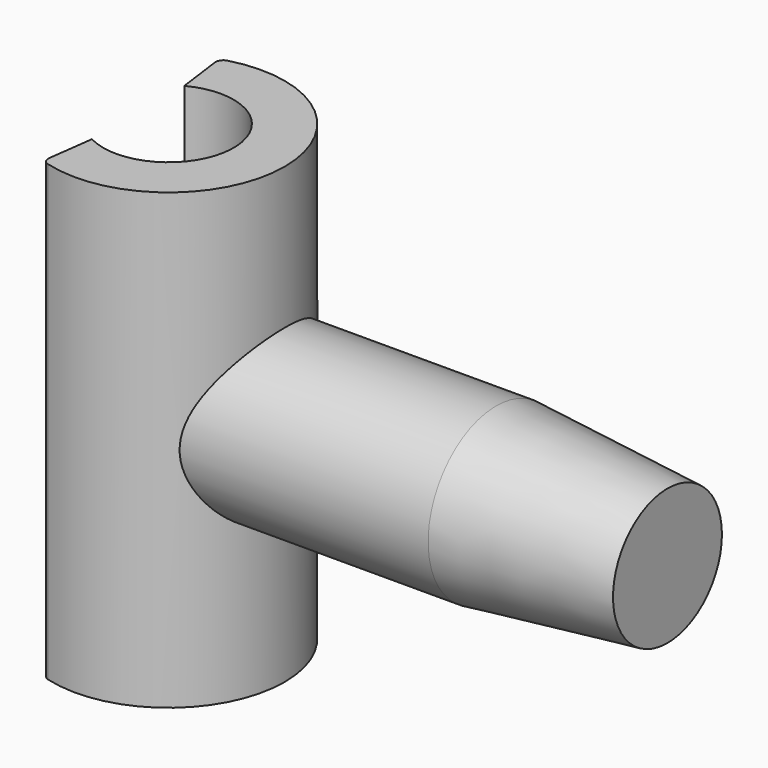
from build123d import *

# Parameters (mm, degrees)
F2_R     = 7.5
F3_DEPTH = 40
F4_SIZE2 = 15.1
F4_SIZE  = 1.5
F5_DEPTH = 2.5
F6_DEPTH = 20


with BuildPart() as f3:
    # F2 (on offset) → F3 (new body)
    with BuildSketch(Plane.YZ.offset(4)):
        Circle(F2_R)
    extrude(amount=F3_DEPTH)

    # F4
    f4_edges = [f3.edges().sort_by_distance(p)[0] for p in [
        (44, -7.5, 0),
    ]]
    f4_side = f3.faces().sort_by_distance((44, 0, 0))[0]
    chamfer(f4_edges, length=F4_SIZE, length2=F4_SIZE2, reference=f4_side)

    # F2 (on offset) → F5 (cut)
    with BuildSketch(Plane.YZ.offset(4)):
        Circle(F2_R)
    extrude(amount=F5_DEPTH, mode=Mode.SUBTRACT)

    # F0 (on Top) → F6 (join, symmetric)
    with BuildSketch(Plane.XY):
        with BuildLine():
            ThreePointArc((-3.2107160512, -9.1318440865), (-3.1021542498, -9.6020282515), (-2.711222774, -9.8849264575))
            ThreePointArc((-2.711222774, -9.8849264575), (10.25, 0), (-2.711222774, 9.8849264575))
            ThreePointArc((-2.711222774, 9.8849264575), (-3.1021542498, 9.6020282515), (-3.2107160512, 9.1318440865))
            Line((-3.2107160512, 9.1318440865), (-2.6748366384, 5.089965529))
            ThreePointArc((-2.6748366384, 5.089965529), (5.7500000112, 0), (-2.6748366384, -5.089965529))
            Line((-2.6748366384, -5.089965529), (-3.2107160512, -9.1318440865))
        make_face()
    extrude(amount=F6_DEPTH, both=True)


solid = f3.part
